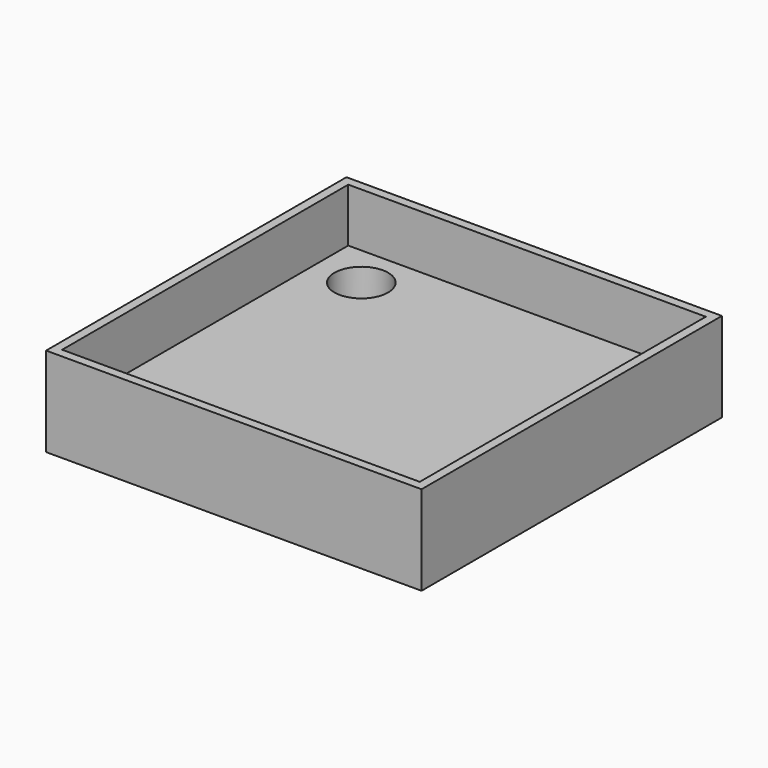
from build123d import *

# Parameters (mm, degrees)
F0_W     = 21
F0_H     = 21
F0_W_2   = 20
F0_H_2   = 20
F1_DEPTH = 5
F2_W     = 21
F2_H     = 21
F2_R     = 1.5
F3_DEPTH = 2


with BuildPart() as f1:
    # F0 (on Top) → F1 (new body)
    with BuildSketch(Plane.XY):
        Rectangle(F0_W, F0_H)
        Rectangle(F0_W_2, F0_H_2, mode=Mode.SUBTRACT)
    extrude(amount=F1_DEPTH)

    # F2 (on Top) → F3 (join)
    with BuildSketch(Plane.XY):
        Rectangle(F2_W, F2_H)
        with Locations((-7.365564, 7.619921)):
            Circle(F2_R, mode=Mode.SUBTRACT)
    extrude(amount=F3_DEPTH)


solid = f1.part
